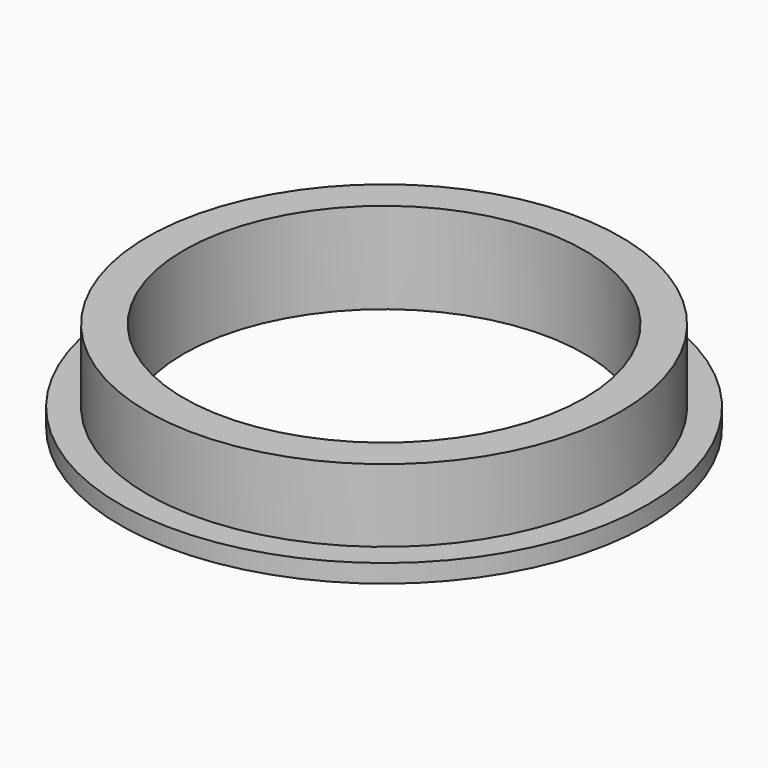
from build123d import *

# Parameters (mm, degrees)
SKETCH_R     = 14.5
PAD_DEPTH    = 1
SKETCH001_R  = 13
PAD001_DEPTH = 4
SKETCH002_R  = 11
POCKET_DEPTH = 5


with BuildPart() as part:
    # Sketch → Pad (new body)
    with BuildSketch(Plane.XY):
        Circle(SKETCH_R)
    extrude(amount=PAD_DEPTH)

    # Sketch001 → Pad001 (new body)
    with BuildSketch(Plane.XY.offset(1)):
        Circle(SKETCH001_R)
    extrude(amount=PAD001_DEPTH)

    # Sketch002 → Pocket (cut)
    with BuildSketch(Plane.XY.offset(5)):
        Circle(SKETCH002_R)
    extrude(amount=-POCKET_DEPTH, mode=Mode.SUBTRACT)


solid = part.part
